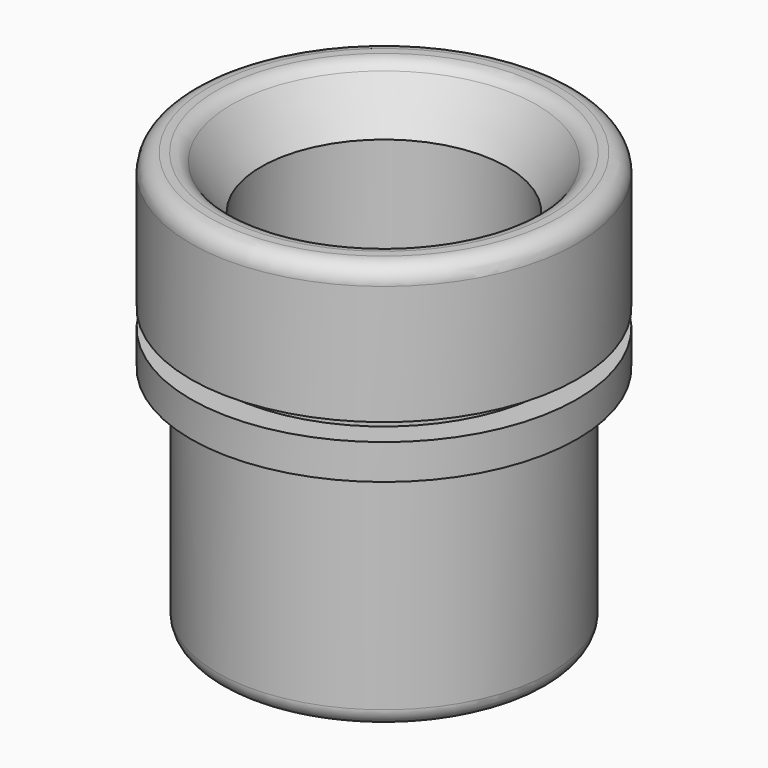
from build123d import *

# Parameters (mm, degrees)
F2_R = 1


with BuildPart() as f1:
    # F0 (on Front) → F1 (revolve)
    with BuildSketch(Plane.XZ):
        Polygon((7, 21), (7, 4), (6, 4), (6, 0), (9.5, 0), (9.5, 13.2), (11, 13.2), (11, 15.2), (9.5, 15.2), (9.5, 16.2), (11, 16.2), (11, 24), (9, 24), align=None)
    revolve(axis=Axis((0, 0, 21.520365), (0, 0, 1)))

    # F2
    f2_edges = [f1.edges().sort_by_distance(p)[0] for p in [
        (-11, 0, 24),
        (-9, 0, 24),
        (-9.5, 0, 0),
    ]]
    fillet(f2_edges, radius=F2_R)


solid = f1.part
